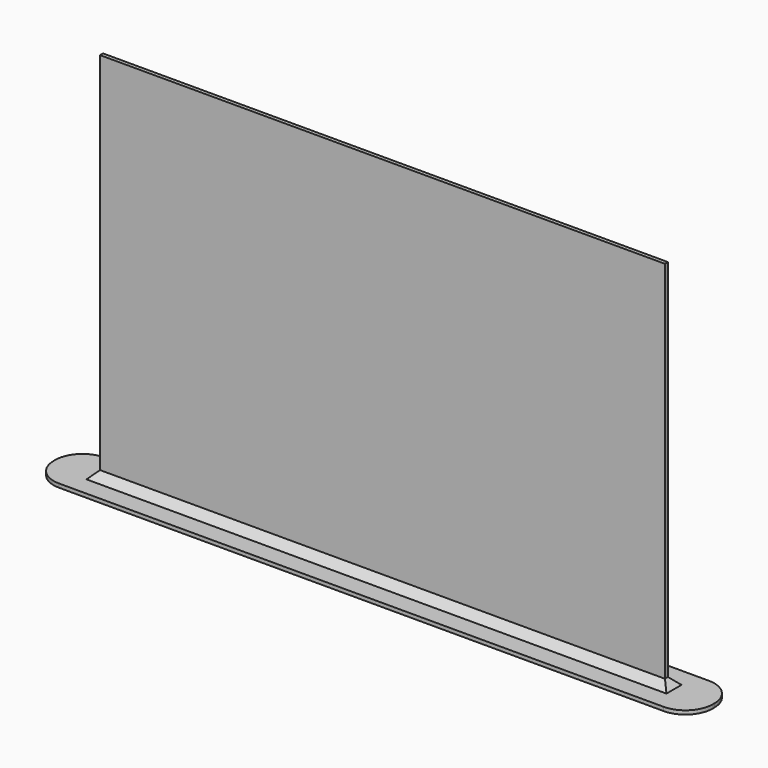
from build123d import *

# Parameters (mm, degrees)
F0_W     = 150
F0_H     = 1
F1_DEPTH = 100
F2_W     = 175
F2_H     = 15
F3_DEPTH = 1
F4_R     = 7.242641
F5_SIZE  = 2


with BuildPart() as f1:
    # F0 (on Top) → F1 (new body)
    with BuildSketch(Plane.XY):
        Rectangle(F0_W, F0_H)
    extrude(amount=F1_DEPTH)

    # F2 (on Top) → F3 (join)
    with BuildSketch(Plane.XY):
        Rectangle(F2_W, F2_H)
    extrude(amount=F3_DEPTH)

    # F4
    f4_edges = [f1.edges().sort_by_distance(p)[0] for p in [
        (-87.5, -7.5, 0.5),
        (-87.5, 7.5, 0.5),
        (87.5, -7.5, 0.5),
        (87.5, 7.5, 0.5),
    ]]
    fillet(f4_edges, radius=F4_R)

    # F5
    f5_edges = [f1.edges().sort_by_distance(p)[0] for p in [
        (0, 0.5, 1),
        (75, 0, 1),
        (0, -0.5, 1),
        (-75, 0, 1),
    ]]
    chamfer(f5_edges, length=F5_SIZE)


solid = f1.part
